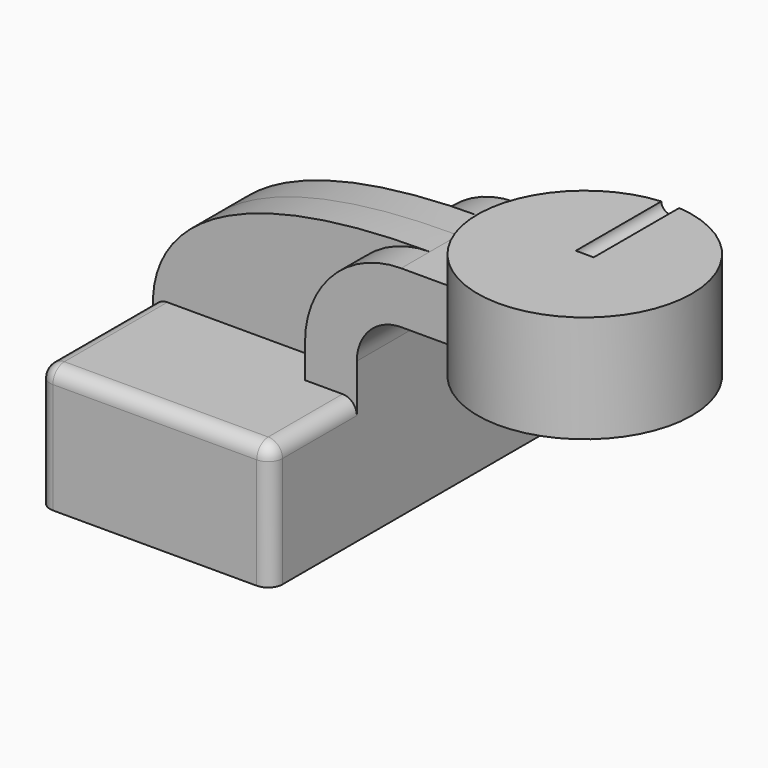
from build123d import *

# Parameters (mm, degrees)
F1_DEPTH = 63.5
F2_DEPTH = 12.7
F0_W     = 37.7701045194
F0_H     = 18.4038491807
F3_DEPTH = 25.4
F0_W_2   = 38.1
F0_H_2   = 38.1
F5_R     = 5.08
F6_D     = 6.35
F6_DEPTH = 63.501


with BuildPart() as f1:
    # F0 (on Front) → F1 (new body, symmetric)
    with BuildSketch(Plane.XZ):
        Polygon((22.8711508193, 22.2250013784), (-41.275, 22.2250013784), (-41.275, -22.2250013784), (41.275, -22.2250013784), (41.275, 22.2250013784), align=None)
    extrude(amount=F1_DEPTH, both=True)

    # F0 (on Front) → F2 (join, symmetric)
    with BuildSketch(Plane.XZ):
        with BuildLine():
            add(Edge.make_bspline(
                [(-41.275, 22.2250013784), (-39.927624166, 47.3601222038), (-12.1371774003, 68.6116442084), (57.023, 68.3297926274)],
                knots=[0, 0, 0, 0, 108.5732406264, 108.5732406264, 108.5732406264, 108.5732406264], degree=3))
            Line((-41.275, 22.2250013784), (22.8711508193, 22.2250013784))
            Line((22.8711508193, 22.2250013784), (22.8711508193, 34.1779434467))
            ThreePointArc((22.8711508193, 34.1779434467), (32.8739958543, 58.3269475924), (57.023, 68.3297926274))
        make_face()
    extrude(amount=F2_DEPTH, both=True)

    # F0 (on Front) → F3 (join, symmetric)
    with BuildSketch(Plane.XZ):
        with BuildLine():
            Line((22.8711508193, 34.1779434467), (22.8711508193, 22.2250013784))
            Line((22.8711508193, 22.2250013784), (41.275, 22.2250013784))
            Line((41.275, 22.2250013784), (41.275, 34.1779434467))
            ThreePointArc((41.275, 34.1779434467), (45.8874824099, 45.3134610369), (57.023, 49.9259434467))
            Line((57.023, 49.9259434467), (63.813790679, 49.9259434467))
            Line((63.813790679, 49.9259434467), (63.813790679, 68.3297926274))
            Line((63.813790679, 68.3297926274), (57.023, 68.3297926274))
            ThreePointArc((57.023, 68.3297926274), (32.8739958543, 58.3269475924), (22.8711508193, 34.1779434467))
        make_face()
        with Locations((82.6988429387, 59.1278680371)):
            Rectangle(F0_W, F0_H)
    extrude(amount=F3_DEPTH, both=True)

    # F0 (on Front) → F4 (revolve)
    with BuildSketch(Plane.XZ):
        with Locations((120.963790679, 58.0022351325)):
            Rectangle(F0_W_2, F0_H_2)
    revolve(axis=Axis((101.913790679, 0, 58.0022351325), (0, 0, -1)))

    # F5
    f5_edges = [f1.edges().sort_by_distance(p)[0] for p in [
        (41.275, -63.5, 0),
        (41.275, 63.5, 0),
        (-41.275, 63.5, 0),
        (-41.275, -63.5, 0),
        (0, -63.5, 22.225001),
        (-41.275, -38.1, 22.225001),
        (-41.275, 38.1, 22.225001),
        (41.275, -44.45, 22.225001),
        (41.275, 44.45, 22.225001),
        (0, 63.5, 22.225001),
    ]]
    fillet(f5_edges, radius=F5_R)

    # F6 (through all, one way)
    with BuildSketch(Plane.XZ):
        with Locations((101.913790679, 77.0522351325), (101.913790679, 38.9522351325)):
            Circle(F6_D / 2)
    extrude(amount=-F6_DEPTH, mode=Mode.SUBTRACT)


solid = f1.part
